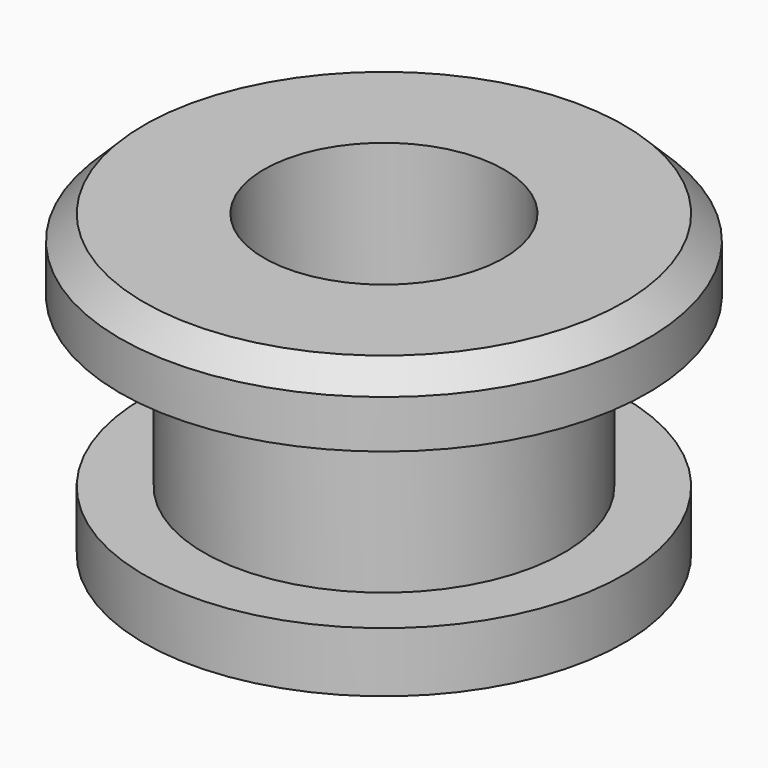
from build123d import *

# Parameters (mm, degrees)
F2_SIZE = 1


with BuildPart() as f1:
    # F0 (on Right) → F1 (revolve)
    with BuildSketch(Plane.YZ):
        Polygon((5, -6.950552), (5, -19.450552), (10, -19.450552), (10, -16.950552), (7.5, -16.950552), (7.5, -9.950552), (11, -9.950552), (11, -6.950552), align=None)
    revolve(axis=Axis((0, 0, -7.205679), (0, 0, -1)))

    # F2
    f2_edges = [f1.edges().sort_by_distance(p)[0] for p in [
        (0, -11, -6.950552),
    ]]
    chamfer(f2_edges, length=F2_SIZE)


solid = f1.part
